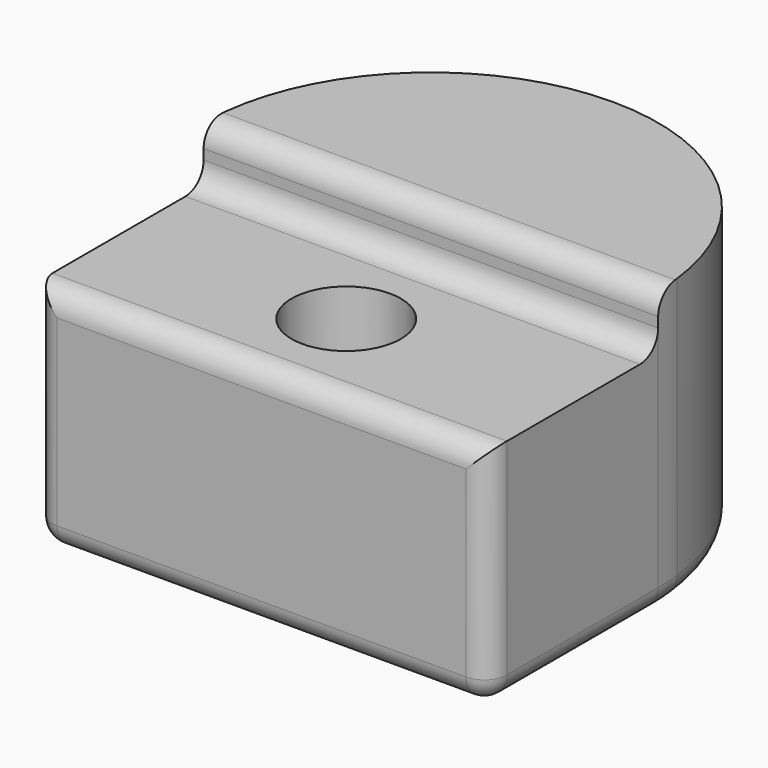
from build123d import *

# Parameters (mm, degrees)
F0_W     = 101.6
F0_H     = 35.88385
F0_R     = 12.2174
F0_H_2   = 5.72135
F0_H_3   = 5.715
F1_DEPTH = 51.0794
F2_DEPTH = 63.5
F3_R     = 5.08


with BuildPart() as f1:
    # F0 (on Top) → F1 (new body)
    with BuildSketch(Plane.XY):
        with Locations((-23.954998, -38.374585)):
            Rectangle(F0_W, F0_H)
        with Locations((-23.954998, -38.37141)):
            Circle(F0_R, mode=Mode.SUBTRACT)
        with Locations((-23.954998, -17.571985)):
            Rectangle(F0_W, F0_H_2)
        with Locations((-23.954998, -59.17401)):
            Rectangle(F0_W, F0_H_3)
    extrude(amount=F1_DEPTH)

    # F0 (on Top) → F2 (join)
    with BuildSketch(Plane.XY):
        with BuildLine():
            ThreePointArc((26.522509, -8.99631), (-23.954998, 36.08869), (-74.432506, -8.99631))
            Line((-74.432506, -8.99631), (26.522509, -8.99631))
        make_face()
        with BuildLine():
            ThreePointArc((-74.432506, -8.99631), (-74.674311, -11.849264), (-74.754998, -14.71131))
            Line((-74.754998, -14.71131), (26.845002, -14.71131))
            ThreePointArc((26.845002, -14.71131), (26.764315, -11.849264), (26.522509, -8.99631))
            Line((26.522509, -8.99631), (-74.432506, -8.99631))
        make_face()
    extrude(amount=F2_DEPTH)

    # F3
    f3_edges = [f1.edges().sort_by_distance(p)[0] for p in [
        (-23.954998, -62.03151, 51.0794),
        (-23.954998, -14.71131, 51.0794),
        (-23.954998, -14.71131, 63.5),
        (26.845002, -62.03151, 25.5397),
        (-74.754998, -62.03151, 25.5397),
        (-23.954998, -62.03151, 0),
        (26.845002, -38.37141, 0),
    ]]
    fillet(f3_edges, radius=F3_R)


solid = f1.part
